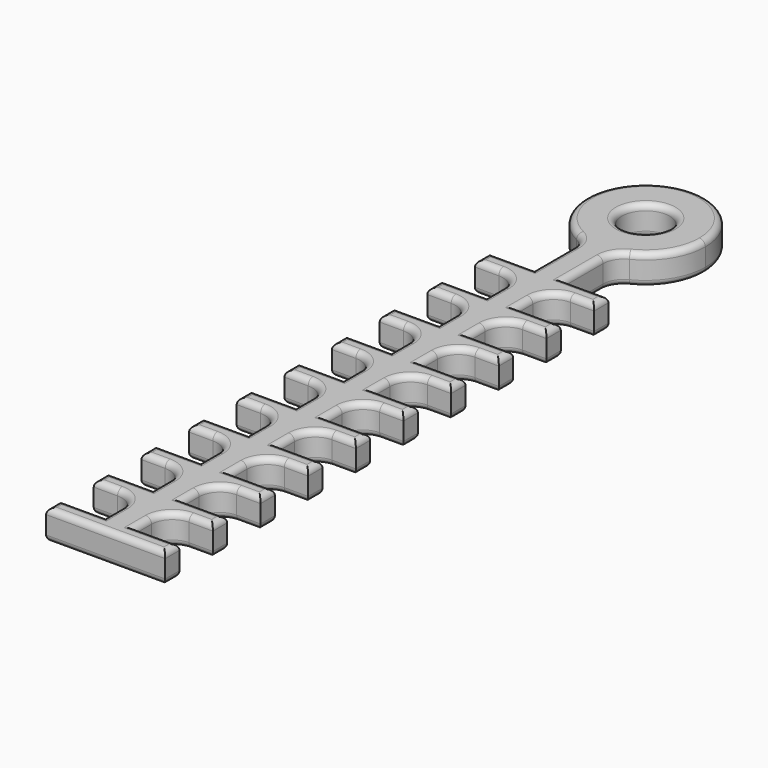
from build123d import *

# Parameters (mm, degrees)
F0_W     = 3.75
F0_H     = 1.5
F0_W_2   = 2.5
F0_H_2   = 3.5
F1_DEPTH = 2.5
F2_R     = 2
F3_DEPTH = 2.5
F4_R     = 1.75
F5_R     = 0.5
F6_R     = 0.5


with BuildPart() as f1:
    # F0 (on Top) → F1 (new body)
    with BuildSketch(Plane.XY):
        with BuildLine():
            ThreePointArc((1.25, -4.8412291828), (3.9528470752, -3.0618621785), (5, 0))
            ThreePointArc((5, 0), (-3.0618621785, 3.9528470752), (-1.25, -4.8412291828))
            Line((-1.25, -4.8412291828), (1.25, -4.8412291828))
        make_face()
        with BuildLine():
            Line((1.25, -4.8412291828), (-1.25, -4.8412291828))
            ThreePointArc((-1.25, -4.8412291828), (0, -5), (1.25, -4.8412291828))
        make_face()
        with BuildLine():
            ThreePointArc((1.25, -4.8412291828), (0, -5), (-1.25, -4.8412291828))
            Line((-1.25, -4.8412291828), (-1.25, -10.16300603))
            Line((-1.25, -10.16300603), (1.25, -10.16300603))
            Line((1.25, -10.16300603), (1.25, -4.8412291828))
        make_face()
        with Locations((-3.125, -10.91300603)):
            Rectangle(F0_W, F0_H)
        with Locations((0, -10.91300603)):
            Rectangle(F0_W_2, F0_H)
        with Locations((3.125, -10.91300603)):
            Rectangle(F0_W, F0_H)
        with Locations((0, -13.41300603)):
            Rectangle(F0_W_2, F0_H_2)
        with Locations((-3.125, -15.91300603)):
            Rectangle(F0_W, F0_H)
        with Locations((0, -15.91300603)):
            Rectangle(F0_W_2, F0_H)
        with Locations((3.125, -15.91300603)):
            Rectangle(F0_W, F0_H)
        with Locations((0, -18.41300603)):
            Rectangle(F0_W_2, F0_H_2)
        with Locations((-3.125, -20.91300603)):
            Rectangle(F0_W, F0_H)
        with Locations((0, -20.91300603)):
            Rectangle(F0_W_2, F0_H)
        with Locations((3.125, -20.91300603)):
            Rectangle(F0_W, F0_H)
        with Locations((0, -23.41300603)):
            Rectangle(F0_W_2, F0_H_2)
        with Locations((-3.125, -25.91300603)):
            Rectangle(F0_W, F0_H)
        with Locations((0, -25.91300603)):
            Rectangle(F0_W_2, F0_H)
        with Locations((3.125, -25.91300603)):
            Rectangle(F0_W, F0_H)
        with Locations((0, -28.41300603)):
            Rectangle(F0_W_2, F0_H_2)
        with Locations((-3.125, -30.91300603)):
            Rectangle(F0_W, F0_H)
        with Locations((0, -30.91300603)):
            Rectangle(F0_W_2, F0_H)
        with Locations((3.125, -30.91300603)):
            Rectangle(F0_W, F0_H)
        with Locations((0, -33.41300603)):
            Rectangle(F0_W_2, F0_H_2)
        with Locations((-3.125, -35.91300603)):
            Rectangle(F0_W, F0_H)
        with Locations((0, -35.91300603)):
            Rectangle(F0_W_2, F0_H)
        with Locations((3.125, -35.91300603)):
            Rectangle(F0_W, F0_H)
        with Locations((0, -38.41300603)):
            Rectangle(F0_W_2, F0_H_2)
        with Locations((-3.125, -40.91300603)):
            Rectangle(F0_W, F0_H)
        with Locations((0, -40.91300603)):
            Rectangle(F0_W_2, F0_H)
        with Locations((3.125, -40.91300603)):
            Rectangle(F0_W, F0_H)
        with Locations((0, -43.41300603)):
            Rectangle(F0_W_2, F0_H_2)
        with Locations((-3.125, -45.91300603)):
            Rectangle(F0_W, F0_H)
        with Locations((0, -45.91300603)):
            Rectangle(F0_W_2, F0_H)
        with Locations((3.125, -45.91300603)):
            Rectangle(F0_W, F0_H)
        with Locations((0, -48.41300603)):
            Rectangle(F0_W_2, F0_H_2)
        with Locations((-3.125, -50.91300603)):
            Rectangle(F0_W, F0_H)
        with Locations((0, -50.91300603)):
            Rectangle(F0_W_2, F0_H)
        with Locations((3.125, -50.91300603)):
            Rectangle(F0_W, F0_H)
        with Locations((0, -53.41300603)):
            Rectangle(F0_W_2, F0_H_2)
        Polygon((1.25, -55.16300603), (-1.25, -55.16300603), (-5, -55.16300603), (-5, -56.66300603), (5, -56.66300603), (5, -55.16300603), align=None)
    extrude(amount=F1_DEPTH)

    # F2 (on face) → F3 (cut, through all)
    with BuildSketch(Plane.XY.offset(2.5)):
        Circle(F2_R)
    extrude(amount=-F3_DEPTH, mode=Mode.SUBTRACT)

    # F4
    f4_edges = [f1.edges().sort_by_distance(p)[0] for p in [
        (1.25, -4.841229, 1.25),
        (-1.25, -4.841229, 1.25),
        (1.25, -11.663006, 1.25),
        (1.25, -16.663006, 1.25),
        (1.25, -21.663006, 1.25),
        (1.25, -26.663006, 1.25),
        (1.25, -31.663006, 1.25),
        (1.25, -36.663006, 1.25),
        (1.25, -41.663006, 1.25),
        (1.25, -46.663006, 1.25),
        (1.25, -51.663006, 1.25),
        (-1.25, -51.663006, 1.25),
        (-1.25, -46.663006, 1.25),
        (-1.25, -41.663006, 1.25),
        (-1.25, -36.663006, 1.25),
        (-1.25, -31.663006, 1.25),
        (-1.25, -26.663006, 1.25),
        (-1.25, -21.663006, 1.25),
        (-1.25, -16.663006, 1.25),
        (-1.25, -11.663006, 1.25),
    ]]
    fillet(f4_edges, radius=F4_R)

    # F5
    f5_edges = [f1.edges().sort_by_distance(p)[0] for p in [
        (-1.25, -8.10485, 2.5),
        (-1.512786, -5.124362, 2.5),
        (-3.125, -10.163006, 2.5),
        (0, 5, 2.5),
        (-5, -10.913006, 2.5),
        (1.512786, -5.124362, 2.5),
        (-4, -11.663006, 2.5),
        (1.25, -8.10485, 2.5),
        (-1.762563, -12.175569, 2.5),
        (3.125, -10.163006, 2.5),
        (-1.25, -14.288006, 2.5),
        (5, -10.913006, 2.5),
        (-3.125, -15.163006, 2.5),
        (4, -11.663006, 2.5),
        (-5, -15.913006, 2.5),
        (1.762563, -12.175569, 2.5),
        (-4, -16.663006, 2.5),
        (1.25, -14.288006, 2.5),
        (-1.762563, -17.175569, 2.5),
        (3.125, -15.163006, 2.5),
        (-1.25, -19.288006, 2.5),
        (5, -15.913006, 2.5),
        (-3.125, -20.163006, 2.5),
        (4, -16.663006, 2.5),
        (-5, -20.913006, 2.5),
        (1.762563, -17.175569, 2.5),
        (-4, -21.663006, 2.5),
        (1.25, -19.288006, 2.5),
        (-1.762563, -22.175569, 2.5),
        (3.125, -20.163006, 2.5),
        (-1.25, -24.288006, 2.5),
        (5, -20.913006, 2.5),
        (-3.125, -25.163006, 2.5),
        (4, -21.663006, 2.5),
        (-5, -25.913006, 2.5),
        (1.762563, -22.175569, 2.5),
        (-4, -26.663006, 2.5),
        (1.25, -24.288006, 2.5),
        (-1.762563, -27.175569, 2.5),
        (3.125, -25.163006, 2.5),
        (-1.25, -29.288006, 2.5),
        (5, -25.913006, 2.5),
        (-3.125, -30.163006, 2.5),
        (4, -26.663006, 2.5),
        (-5, -30.913006, 2.5),
        (1.762563, -27.175569, 2.5),
        (-4, -31.663006, 2.5),
        (1.25, -29.288006, 2.5),
        (-1.762563, -32.175569, 2.5),
        (3.125, -30.163006, 2.5),
        (-1.25, -34.288006, 2.5),
        (5, -30.913006, 2.5),
        (-3.125, -35.163006, 2.5),
        (4, -31.663006, 2.5),
        (-5, -35.913006, 2.5),
        (1.762563, -32.175569, 2.5),
        (-4, -36.663006, 2.5),
        (1.25, -34.288006, 2.5),
        (-1.762563, -37.175569, 2.5),
        (3.125, -35.163006, 2.5),
        (-1.25, -39.288006, 2.5),
        (5, -35.913006, 2.5),
        (-3.125, -40.163006, 2.5),
        (4, -36.663006, 2.5),
        (-5, -40.913006, 2.5),
        (1.762563, -37.175569, 2.5),
        (-4, -41.663006, 2.5),
        (1.25, -39.288006, 2.5),
        (-1.762563, -42.175569, 2.5),
        (3.125, -40.163006, 2.5),
        (-1.25, -44.288006, 2.5),
        (5, -40.913006, 2.5),
        (-3.125, -45.163006, 2.5),
        (4, -41.663006, 2.5),
        (-5, -45.913006, 2.5),
        (1.762563, -42.175569, 2.5),
        (-4, -46.663006, 2.5),
        (1.25, -44.288006, 2.5),
        (-1.762563, -47.175569, 2.5),
        (3.125, -45.163006, 2.5),
        (-1.25, -49.288006, 2.5),
        (5, -45.913006, 2.5),
        (-3.125, -50.163006, 2.5),
        (4, -46.663006, 2.5),
        (-5, -50.913006, 2.5),
        (1.762563, -47.175569, 2.5),
        (-4, -51.663006, 2.5),
        (1.25, -49.288006, 2.5),
        (-1.762563, -52.175569, 2.5),
        (3.125, -50.163006, 2.5),
        (-1.25, -54.288006, 2.5),
        (5, -50.913006, 2.5),
        (-3.125, -55.163006, 2.5),
        (4, -51.663006, 2.5),
        (-5, -55.913006, 2.5),
        (1.762563, -52.175569, 2.5),
        (0, -56.663006, 2.5),
        (1.25, -54.288006, 2.5),
        (5, -55.913006, 2.5),
        (3.125, -55.163006, 2.5),
        (-2, 0, 2.5),
    ]]
    fillet(f5_edges, radius=F5_R)

    # F6
    f6_edges = [f1.edges().sort_by_distance(p)[0] for p in [
        (-1.25, -8.10485, 0),
        (-1.512786, -5.124362, 0),
        (-3.125, -10.163006, 0),
        (0, 5, 0),
        (-5, -10.913006, 0),
        (1.512786, -5.124362, 0),
        (-4, -11.663006, 0),
        (1.25, -8.10485, 0),
        (-1.762563, -12.175569, 0),
        (3.125, -10.163006, 0),
        (-1.25, -14.288006, 0),
        (5, -10.913006, 0),
        (-3.125, -15.163006, 0),
        (4, -11.663006, 0),
        (-5, -15.913006, 0),
        (1.762563, -12.175569, 0),
        (-4, -16.663006, 0),
        (1.25, -14.288006, 0),
        (-1.762563, -17.175569, 0),
        (3.125, -15.163006, 0),
        (-1.25, -19.288006, 0),
        (5, -15.913006, 0),
        (-3.125, -20.163006, 0),
        (4, -16.663006, 0),
        (-5, -20.913006, 0),
        (1.762563, -17.175569, 0),
        (-4, -21.663006, 0),
        (1.25, -19.288006, 0),
        (-1.762563, -22.175569, 0),
        (3.125, -20.163006, 0),
        (-1.25, -24.288006, 0),
        (5, -20.913006, 0),
        (-3.125, -25.163006, 0),
        (4, -21.663006, 0),
        (-5, -25.913006, 0),
        (1.762563, -22.175569, 0),
        (-4, -26.663006, 0),
        (1.25, -24.288006, 0),
        (-1.762563, -27.175569, 0),
        (3.125, -25.163006, 0),
        (-1.25, -29.288006, 0),
        (5, -25.913006, 0),
        (-3.125, -30.163006, 0),
        (4, -26.663006, 0),
        (-5, -30.913006, 0),
        (1.762563, -27.175569, 0),
        (-4, -31.663006, 0),
        (1.25, -29.288006, 0),
        (-1.762563, -32.175569, 0),
        (3.125, -30.163006, 0),
        (-1.25, -34.288006, 0),
        (5, -30.913006, 0),
        (-3.125, -35.163006, 0),
        (4, -31.663006, 0),
        (-5, -35.913006, 0),
        (1.762563, -32.175569, 0),
        (-4, -36.663006, 0),
        (1.25, -34.288006, 0),
        (-1.762563, -37.175569, 0),
        (3.125, -35.163006, 0),
        (-1.25, -39.288006, 0),
        (5, -35.913006, 0),
        (-3.125, -40.163006, 0),
        (4, -36.663006, 0),
        (-5, -40.913006, 0),
        (1.762563, -37.175569, 0),
        (-4, -41.663006, 0),
        (1.25, -39.288006, 0),
        (-1.762563, -42.175569, 0),
        (3.125, -40.163006, 0),
        (-1.25, -44.288006, 0),
        (5, -40.913006, 0),
        (-3.125, -45.163006, 0),
        (4, -41.663006, 0),
        (-5, -45.913006, 0),
        (1.762563, -42.175569, 0),
        (-4, -46.663006, 0),
        (1.25, -44.288006, 0),
        (-1.762563, -47.175569, 0),
        (3.125, -45.163006, 0),
        (-1.25, -49.288006, 0),
        (5, -45.913006, 0),
        (-3.125, -50.163006, 0),
        (4, -46.663006, 0),
        (-5, -50.913006, 0),
        (1.762563, -47.175569, 0),
        (-4, -51.663006, 0),
        (1.25, -49.288006, 0),
        (-1.762563, -52.175569, 0),
        (3.125, -50.163006, 0),
        (-1.25, -54.288006, 0),
        (5, -50.913006, 0),
        (-3.125, -55.163006, 0),
        (4, -51.663006, 0),
        (-5, -55.913006, 0),
        (1.762563, -52.175569, 0),
        (0, -56.663006, 0),
        (1.25, -54.288006, 0),
        (5, -55.913006, 0),
        (3.125, -55.163006, 0),
        (-2, 0, 0),
    ]]
    fillet(f6_edges, radius=F6_R)


solid = f1.part
